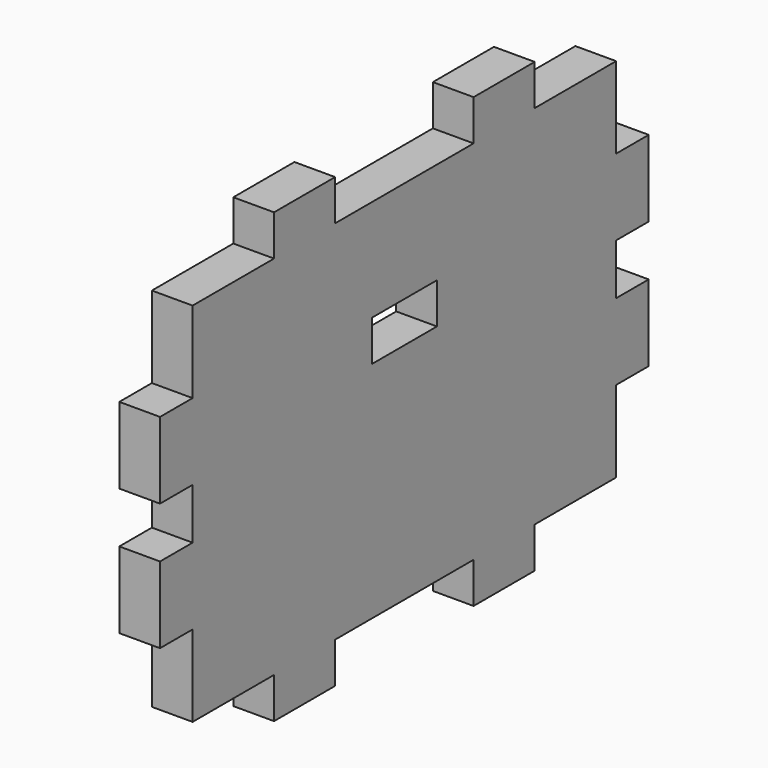
from build123d import *

# Parameters (mm, degrees)
SKETCH004_W                     = 52
SKETCH004_H                     = 36
PAD003_DEPTH                    = 4
SKETCH006_W                     = 7.5
SKETCH006_H                     = 4
PAD004_DEPTH                    = 4
SKETCH006_LINEARPATTERN006_2_W  = 7.5
SKETCH006_LINEARPATTERN006_2_H  = 4
PAD004_LINEARPATTERN006_2_DEPTH = 4
LINEARPATTERN007_COUNT          = 2
LINEARPATTERN007_PITCH          = 40
SKETCH007_W                     = 7.5
SKETCH007_H                     = 4
PAD005_DEPTH                    = 4
SKETCH007_LINEARPATTERN008_2_W  = 7.5
SKETCH007_LINEARPATTERN008_2_H  = 4
PAD005_LINEARPATTERN008_2_DEPTH = 4
SKETCH011_W                     = 8
SKETCH011_H                     = 4
POCKET004_DEPTH                 = 4


with BuildPart() as part:
    # Sketch004 → Pad003 (new body)
    with BuildSketch(Plane.YZ):
        with Locations((0, -18)):
            Rectangle(SKETCH004_W, SKETCH004_H)
    extrude(amount=PAD003_DEPTH)

    # Sketch006 (on Face1 of Pad003) → Pad004 (join)
    with BuildSketch(Plane(origin=(0, 0, 0), x_dir=(0, -1, 0), z_dir=(0, 0, 1))):
        with Locations((-12.25, 2)):
            Rectangle(SKETCH006_W, SKETCH006_H)
    pad004 = extrude(amount=PAD004_DEPTH)

    # Sketch006 LinearPattern006 2 → Pad004 LinearPattern006 2 (add)
    with BuildSketch(Plane(origin=(0, -24.5, 0), x_dir=(0, -1, 0), z_dir=(0, 0, 1))):
        with Locations((-12.25, 2)):
            Rectangle(SKETCH006_LINEARPATTERN006_2_W, SKETCH006_LINEARPATTERN006_2_H)
    pad004_linearpattern006_2 = extrude(amount=PAD004_LINEARPATTERN006_2_DEPTH)

    # LinearPattern007: Pad004, Pad004 LinearPattern006 2 ×2
    with Locations(*[(0, 0, -i * LINEARPATTERN007_PITCH) for i in range(1, LINEARPATTERN007_COUNT)]):
        add(pad004)
        add(pad004_linearpattern006_2)

    # Sketch007 → Pad005 (join)
    with BuildSketch(Plane(origin=(0, -26, 0), x_dir=(0, 0, -1), z_dir=(0, -1, 0))):
        with Locations((11.75, 2)):
            Rectangle(SKETCH007_W, SKETCH007_H)
    pad005 = extrude(amount=PAD005_DEPTH)

    # Sketch007 LinearPattern008 2 → Pad005 LinearPattern008 2 (add)
    with BuildSketch(Plane(origin=(0, -26, -12.5), x_dir=(0, 0, -1), z_dir=(0, -1, 0))):
        with Locations((11.75, 2)):
            Rectangle(SKETCH007_LINEARPATTERN008_2_W, SKETCH007_LINEARPATTERN008_2_H)
    pad005_linearpattern008_2 = extrude(amount=PAD005_LINEARPATTERN008_2_DEPTH)

    # Mirrored001: Pad005, Pad005 LinearPattern008 2 across XZ
    add(pad005.mirror(Plane.XZ))
    add(pad005_linearpattern008_2.mirror(Plane.XZ))

    # Sketch011 (on Face2 of MultiTransform002) → Pocket004 (cut)
    with BuildSketch(Plane(origin=(0, 0, 0), x_dir=(0, 1, 0), z_dir=(-1, 0, 0))):
        with Locations((0, 12)):
            Rectangle(SKETCH011_W, SKETCH011_H)
    extrude(amount=-POCKET004_DEPTH, mode=Mode.SUBTRACT)


with BuildPart() as part_1:
    # Body002 placement: moved
    add(part.part.moved(Location((-80, 0, 0))))


solid = part_1.part
